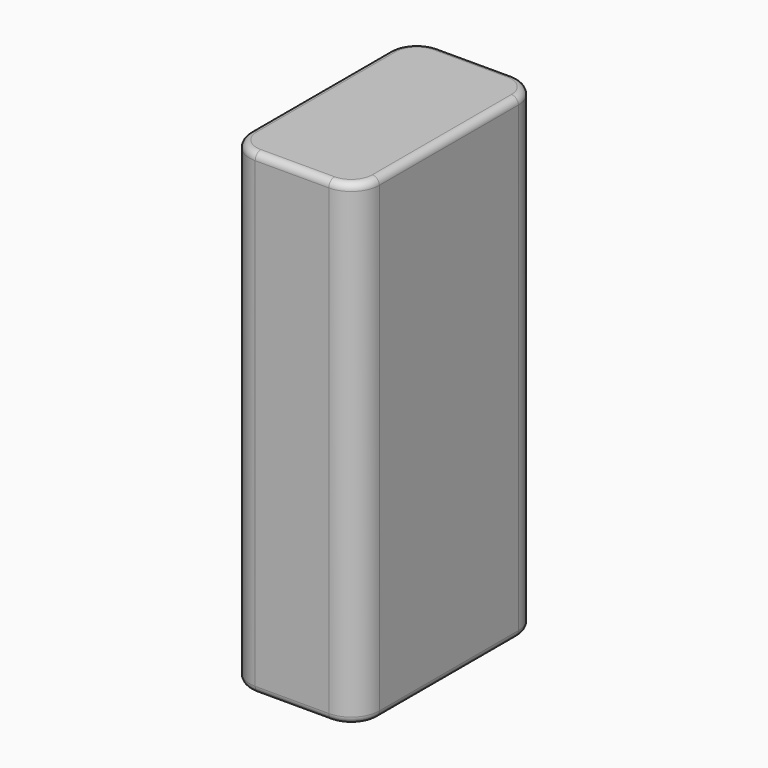
from build123d import *

# Parameters (mm, degrees)
SKETCH014_W  = 68
SKETCH014_H  = 32.8
PAD008_DEPTH = 18.5
FILLET002_R  = 4
FILLET003_R  = 1


with BuildPart() as part:
    # Sketch014 (on DatumPlane) → Pad008 (new body)
    with BuildSketch(Plane(origin=(6.5, 0, 0), x_dir=(0, 0, 1), z_dir=(1, 0, 0))):
        with Locations((75.574417, -22.193849)):
            Rectangle(SKETCH014_W, SKETCH014_H)
    extrude(amount=PAD008_DEPTH)

    # Fillet002
    fillet002_edges = [part.edges().sort_by_distance(p)[0] for p in [
        (25, 38.593849, 75.574417),
        (6.5, 38.593849, 75.574417),
        (6.5, 5.793849, 75.574417),
        (25, 5.793849, 75.574417),
    ]]
    fillet(fillet002_edges, radius=FILLET002_R)

    # Fillet003
    fillet003_edges = [part.edges().sort_by_distance(p)[0] for p in [
        (15.75, 5.793849, 109.574417),
        (7.671573, 6.965422, 109.574417),
        (23.828427, 6.965422, 109.574417),
        (6.5, 22.193849, 109.574417),
        (25, 22.193849, 109.574417),
        (7.671573, 37.422276, 109.574417),
        (23.828427, 37.422276, 109.574417),
        (15.75, 38.593849, 109.574417),
        (15.75, 38.593849, 41.574417),
        (7.671573, 37.422276, 41.574417),
        (23.828427, 37.422276, 41.574417),
        (6.5, 22.193849, 41.574417),
        (25, 22.193849, 41.574417),
        (7.671573, 6.965422, 41.574417),
        (23.828427, 6.965422, 41.574417),
        (15.75, 5.793849, 41.574417),
    ]]
    fillet(fillet003_edges, radius=FILLET003_R)


solid = part.part
